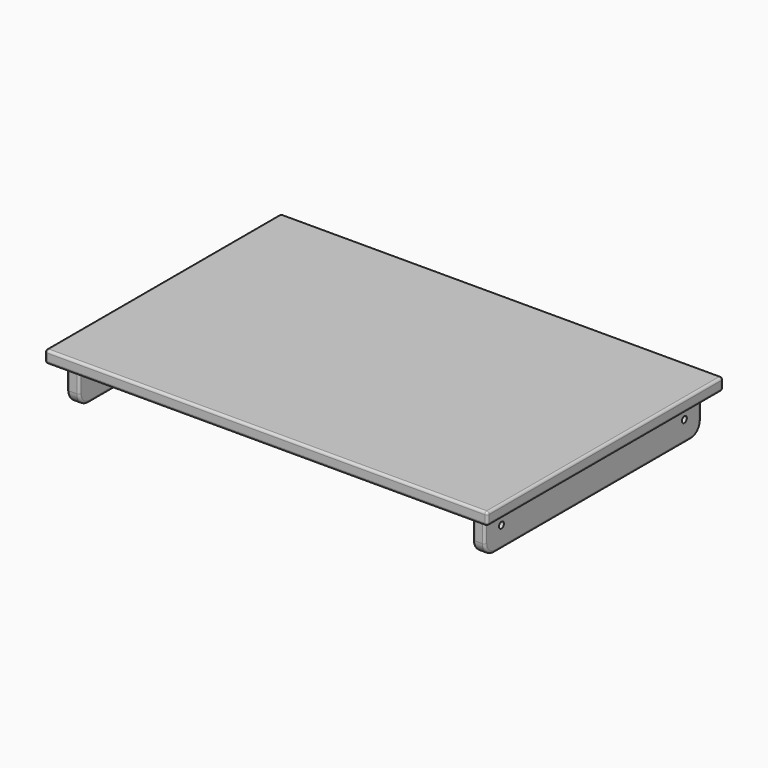
from build123d import *

# Parameters (mm, degrees)
F1_W     = 914.4
F1_H     = 609.6
F2_DEPTH = 25.4
F3_R     = 5.08
F4_W     = 25.4
F4_H     = 76.2
F5_DEPTH = 279.4
F6_R     = 25.4
F6_2_R   = 25.4
F7_R     = 5.08
F7_2_R   = 5.08
F8_R     = 6.35
F9_DEPTH = 863.6


with BuildPart() as f2:
    # F1 (on Top) → F2 (new body)
    with BuildSketch(Plane.XY):
        Rectangle(F1_W, F1_H)
    extrude(amount=F2_DEPTH)

    # F3
    f3_edges = [f2.edges().sort_by_distance(p)[0] for p in [
        (-457.2, 304.8, 12.7),
        (-457.2, 0, 25.4),
        (457.2, -304.8, 12.7),
        (0, -304.8, 25.4),
        (-457.2, 0, 0),
        (457.2, 0, 25.4),
        (0, 304.8, 25.4),
        (-457.2, -304.8, 12.7),
        (0, -304.8, 0),
        (0, 304.8, 0),
        (457.2, 304.8, 12.7),
        (457.2, 0, 0),
    ]]
    fillet(f3_edges, radius=F3_R)


with BuildPart() as f5:
    # F4 (on Front) → F5 (new body, symmetric)
    with BuildSketch(Plane.XZ):
        with Locations((-419.1, -38.1)):
            Rectangle(F4_W, F4_H)
    extrude(amount=F5_DEPTH, both=True)

    # F6
    f6_edges = [f5.edges().sort_by_distance(p)[0] for p in [
        (-419.1, -279.4, -76.2),
        (-419.1, 279.4, -76.2),
    ]]
    fillet(f6_edges, radius=F6_R)

    # F7#2
    f7_2_edges = [f5.edges().sort_by_distance(p)[0] for p in [
        (-406.4, -271.960512, -68.760512),
        (-406.4, 271.960512, -68.760512),
        (-431.8, 271.960512, -68.760512),
        (-431.8, -271.960512, -68.760512),
        (-406.4, 279.4, -25.4),
        (-406.4, 0, -76.2),
        (-406.4, -279.4, -25.4),
        (-419.1, -279.4, -50.8),
        (-419.1, 279.4, -50.8),
        (-431.8, 279.4, -25.4),
        (-419.1, -254, -76.2),
        (-431.8, -279.4, -25.4),
        (-419.1, 254, -76.2),
        (-431.8, 0, -76.2),
    ]]
    fillet(f7_2_edges, radius=F7_2_R)


with BuildPart() as f5b:
    # F4 (on Front) → F5, piece 2 (new body, symmetric)
    with BuildSketch(Plane.XZ):
        with Locations((419.1, -38.1)):
            Rectangle(F4_W, F4_H)
    extrude(amount=F5_DEPTH, both=True)

    # F6#2
    f6_2_edges = [f5b.edges().sort_by_distance(p)[0] for p in [
        (419.1, -279.4, -76.2),
        (419.1, 279.4, -76.2),
    ]]
    fillet(f6_2_edges, radius=F6_2_R)

    # F7
    f7_edges = [f5b.edges().sort_by_distance(p)[0] for p in [
        (431.8, -271.960512, -68.760512),
        (431.8, 271.960512, -68.760512),
        (431.8, -279.4, -25.4),
        (431.8, 279.4, -25.4),
        (406.4, 271.960512, -68.760512),
        (431.8, 0, -76.2),
        (406.4, -271.960512, -68.760512),
        (406.4, 0, -76.2),
        (406.4, -279.4, -25.4),
        (419.1, -254, -76.2),
        (419.1, 254, -76.2),
        (406.4, 279.4, -25.4),
        (419.1, 279.4, -50.8),
        (419.1, -279.4, -50.8),
    ]]
    fillet(f7_edges, radius=F7_R)


with BuildPart() as f9_tool:
    # F8 (on face) → F9 (new body, through all)
    with BuildSketch(Plane.YZ.offset(431.8)):
        with Locations((-236.22, -33.02)):
            Circle(F8_R)
        with Locations((236.22, -33.02)):
            Circle(F8_R)
    extrude(amount=-F9_DEPTH)


with BuildPart() as f5_1:
    add(f5.part)

    # F9: cut by f9_tool
    add(f9_tool.part, mode=Mode.SUBTRACT)


with BuildPart() as f5b_1:
    add(f5b.part)

    # F9: cut by f9_tool
    add(f9_tool.part, mode=Mode.SUBTRACT)


solid = Compound([f2.part, f5_1.part, f5b_1.part])
